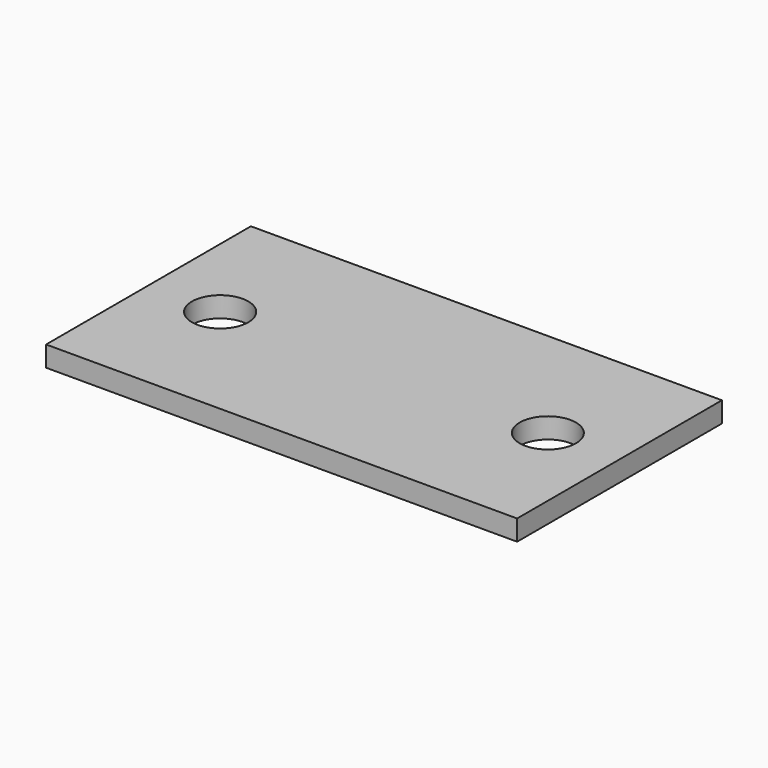
from build123d import *

# Parameters (mm, degrees)
F0_W     = 46
F0_H     = 25
F0_R     = 2.7559
F0_R_2   = 2.75
F1_DEPTH = 2


with BuildPart() as f1:
    # F0 (on Top) → F1 (new body)
    with BuildSketch(Plane.XY):
        Rectangle(F0_W, F0_H)
        with Locations((-16, 0)):
            Circle(F0_R, mode=Mode.SUBTRACT)
        with Locations((16, 0)):
            Circle(F0_R_2, mode=Mode.SUBTRACT)
    extrude(amount=F1_DEPTH)


solid = f1.part
